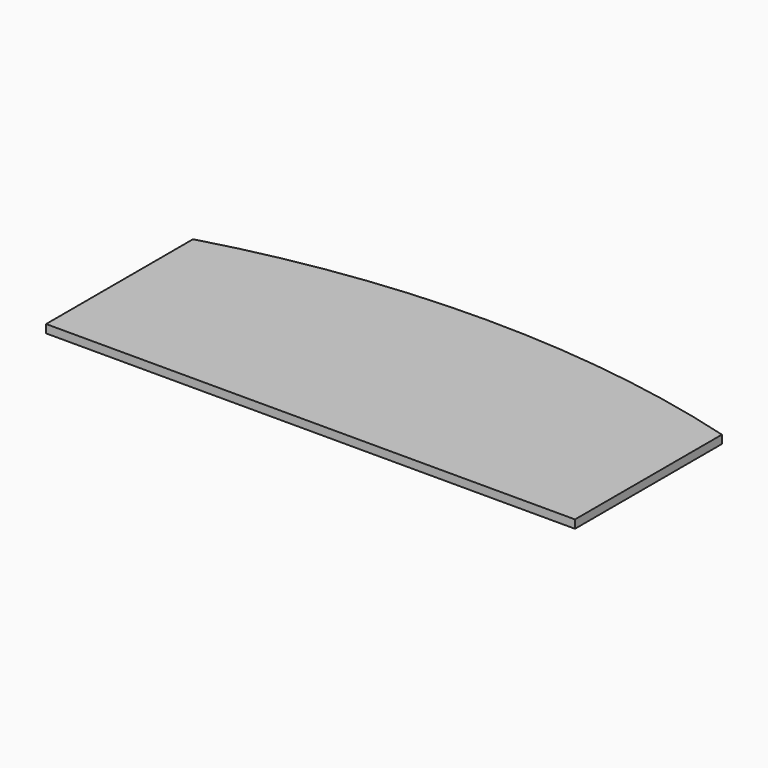
from build123d import *

# Parameters (mm, degrees)
F1_DEPTH = 28.575


with BuildPart() as f1:
    # F0 (on Top) → F1 (new body)
    with BuildSketch(Plane.XY):
        Polygon((0, 317.5), (-914.4, 317.5), (-914.4, -317.5), (914.4, -317.5), (914.4, 317.5), align=None)
        with BuildLine():
            ThreePointArc((0, 444.5), (-461.588659, 412.598344), (-914.4, 317.5))
            Line((-914.4, 317.5), (0, 317.5))
            Line((0, 317.5), (0, 444.5))
        make_face()
        with BuildLine():
            Line((0, 444.5), (0, 317.5))
            Line((0, 317.5), (914.4, 317.5))
            ThreePointArc((914.4, 317.5), (461.588659, 412.598344), (0, 444.5))
        make_face()
    extrude(amount=F1_DEPTH)


solid = f1.part
